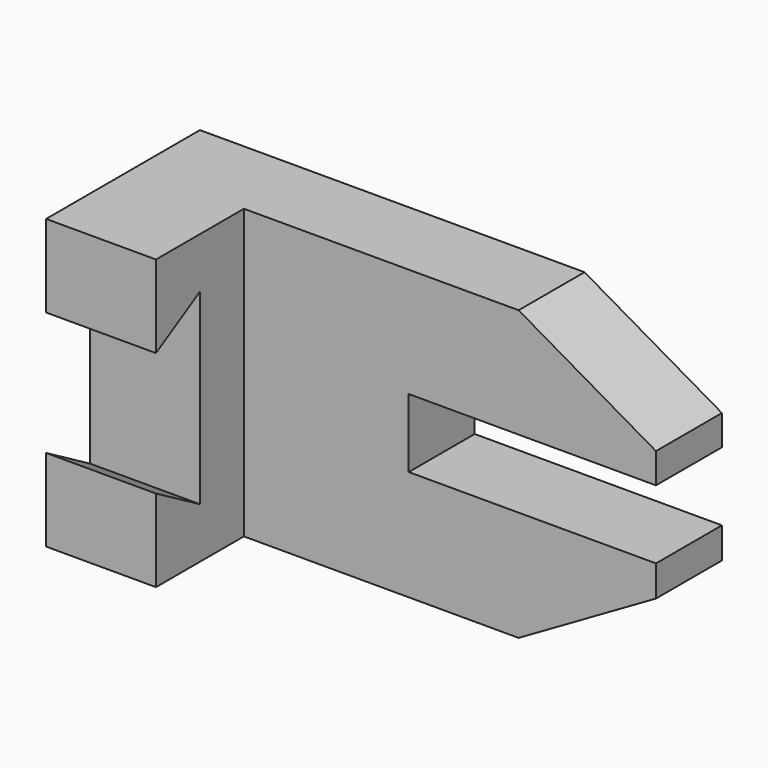
from build123d import *

# Parameters (mm, degrees)
F1_DEPTH = 19.05
F2_W     = 25.4
F2_H     = 66.675
F3_DEPTH = 25.4
F5_DEPTH = 25.401


with BuildPart() as f1:
    # F0 (on Front) → F1 (new body)
    with BuildSketch(Plane.XZ):
        Polygon((35.200049, 30.561636), (-53.699951, 30.561636), (-53.699951, -36.113364), (35.200049, -36.113364), (66.950049, -17.782492), (66.950049, -10.622952), (9.800049, -10.622952), (9.800049, 5.252048), (66.950049, 5.252048), (66.950049, 12.230765), align=None)
    extrude(amount=F1_DEPTH)

    # F2 (on face) → F3 (join)
    with BuildSketch(Plane.XZ.offset(19.05)):
        with Locations((-40.999951, -2.775864)):
            Rectangle(F2_W, F2_H)
    extrude(amount=F3_DEPTH)

    # F4 (on face) → F5 (cut, through all)
    with BuildSketch(Plane.YZ.offset(-28.299951)):
        Polygon((-31.75, 18.843985), (-44.45, 11.511636), (-44.45, -17.063364), (-31.75, -24.395712), align=None)
    extrude(amount=-F5_DEPTH, mode=Mode.SUBTRACT)


solid = f1.part
